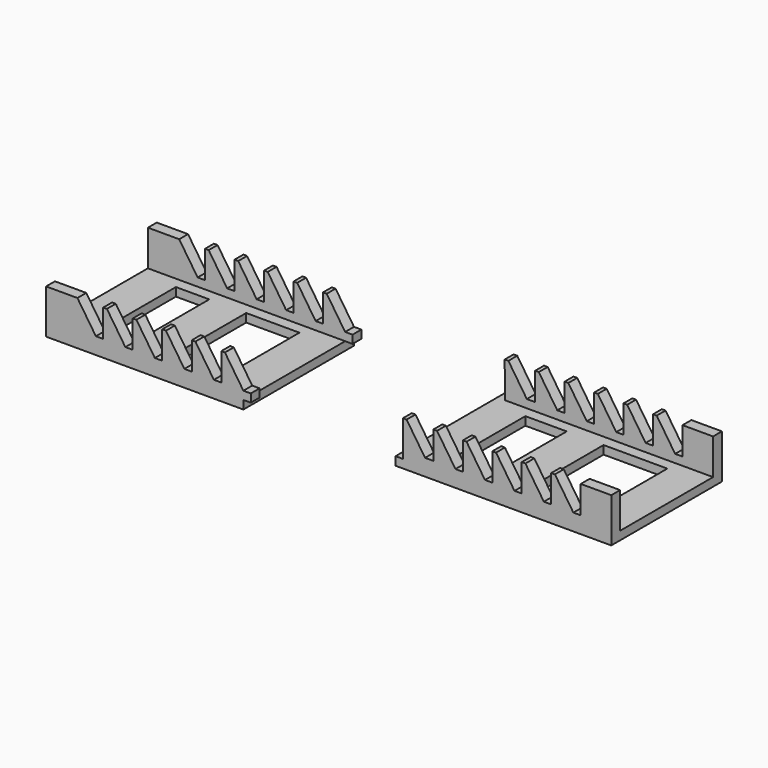
from build123d import *

# Parameters (mm, degrees)
F1_DEPTH  = 75
F2_W      = 199.5262856326
F2_H      = 63
F2_W_2    = 107
F3_DEPTH  = 24.001
F5_DEPTH  = 24.001
F6_W      = 63
F6_H      = 4.587566305
F7_DEPTH  = 107
F8_W      = 63
F8_H      = 4.587566305
F9_DEPTH  = 117
F12_W     = 22.4242766801
F12_H     = 51
F12_W_2   = 34.5757233199
F13_DEPTH = 24.001
F14_W     = 18.1051486874
F14_H     = 51
F14_W_2   = 28.8948513126
F15_DEPTH = 24.001


with BuildPart() as f1:
    # F0 (on Front) → F1 (new body)
    with BuildSketch(Plane.XZ):
        Polygon((-64.5259652877, 24), (-66.5259652877, 24), (-66.5259652877, 9), (-70.5259652877, 9), (-80.526317911, 24), (-97.5259652877, 24), (-97.5259652877, 0), (9.4740347123, 0), (9.4740347123, 4.587566305), (13.4762306641, 4.587566305), (13.4762306641, 9), (9.4762306641, 9), (-0.5242085263, 24), (-2.5242085263, 24), (-2.5242085263, 9), (-6.5242085263, 9), (-16.5246477167, 24), (-18.5246477167, 24), (-18.5246477167, 9), (-22.5246477167, 9), (-32.525086907, 24), (-34.525086907, 24), (-34.525086907, 9), (-38.525086907, 9), (-48.5255260974, 24), (-50.5255260974, 24), (-50.5255260974, 9), (-54.5255260974, 9), align=None)
    extrude(amount=F1_DEPTH)


with BuildPart() as f1b:
    # F0 (on Front) → F1, piece 2 (new body)
    with BuildSketch(Plane.XZ):
        Polygon((98.0021959518, 24), (96.0021959518, 24), (96.0903967895, 4.587566305), (92.0003203449, 4.587566305), (92.0003203449, 0), (209.0003203449, 0), (209.0003203449, 24), (192.4371510019, 24), (192.4371510019, 9), (188.4371510019, 9), (178.4367118115, 24), (176.4367118115, 24), (176.4367118115, 9), (172.4367118115, 9), (162.4362726212, 24), (160.4362726212, 24), (160.4362726212, 9), (156.5013175711, 9), (146.5008783807, 24), (144.5008783807, 24), (144.5008783807, 9), (140.5008783807, 9), (130.5004391904, 24), (128.5004391904, 24), (128.5004391904, 9), (124.5004391904, 9), (114.5, 24), (112.5, 24), (112.5, 9), (108.0026351421, 9), align=None)
    extrude(amount=F1_DEPTH)


with BuildPart() as f3_tool:
    # F2 (on face) → F3 (new body, through all)
    with BuildSketch(Plane(origin=(0, 0, 0), x_dir=(1, 0, 0), z_dir=(0, 0, -1))):
        with Locations((109.2371775286, 37.5)):
            Rectangle(F2_W, F2_H)
        with Locations((-44.0259652877, 37.5)):
            Rectangle(F2_W_2, F2_H)
    extrude(amount=-F3_DEPTH)


with BuildPart() as f1_1:
    add(f1.part)

    # F3: cut by f3_tool
    add(f3_tool.part, mode=Mode.SUBTRACT)

    # F4 (on face) → F5 (cut, through all)
    with BuildSketch(Plane(origin=(0, 0, 0), x_dir=(1, 0, 0), z_dir=(0, 0, -1))):
        Polygon((13.4762306641, 6), (13.4762306641, 69), (9.4740347123, 69), (-97.5259652877, 69), (-97.5259652877, 6), (9.4740347123, 6), align=None)
        Polygon((13.4762306641, 6), (13.4762306641, 69), (9.4740347123, 69), (-97.5259652877, 69), (-97.5259652877, 6), (9.4740347123, 6), align=None)
    extrude(amount=-F5_DEPTH, mode=Mode.SUBTRACT)


with BuildPart() as f1b_1:
    add(f1b.part)

    # F3: cut by f3_tool
    add(f3_tool.part, mode=Mode.SUBTRACT)


with BuildPart() as f7:
    # F6 (on face) → F7 (new body)
    with BuildSketch(Plane.YZ.offset(9.4740347123)):
        with Locations((-37.5, 2.2937831525)):
            Rectangle(F6_W, F6_H)
    extrude(amount=-F7_DEPTH)


with BuildPart() as f9:
    # F8 (on face) → F9 (new body)
    with BuildSketch(Plane(origin=(92.0003203449, 0, 0), x_dir=(0, -1, 0), z_dir=(-1, 0, 0))):
        with Locations((37.5, 2.2937831525)):
            Rectangle(F8_W, F8_H)
    extrude(amount=-F9_DEPTH)


with BuildPart() as f1b_2:
    add(f1b_1.part)

    # F10: union F9
    add(f9.part)

    # F12 (on face) → F13 (cut, through all)
    with BuildSketch(Plane(origin=(0, 0, 0), x_dir=(1, 0, 0), z_dir=(0, 0, -1))):
        with Locations((123.2124586849, 37.5)):
            Rectangle(F12_W, F12_H)
        with Locations((171.7124586849, 37.5)):
            Rectangle(F12_W_2, F12_H)
    extrude(amount=-F13_DEPTH, mode=Mode.SUBTRACT)


with BuildPart() as f1_2:
    add(f1_1.part)

    # F11: union F7
    add(f7.part)

    # F14 (on face) → F15 (cut, through all)
    with BuildSketch(Plane(origin=(0, 0, 0), x_dir=(1, 0, 0), z_dir=(0, 0, -1))):
        with Locations((-68.473390944, 37.5)):
            Rectangle(F14_W, F14_H)
        with Locations((-24.973390944, 37.5)):
            Rectangle(F14_W_2, F14_H)
    extrude(amount=-F15_DEPTH, mode=Mode.SUBTRACT)


solid = Compound([f1b_2.part, f1_2.part])
